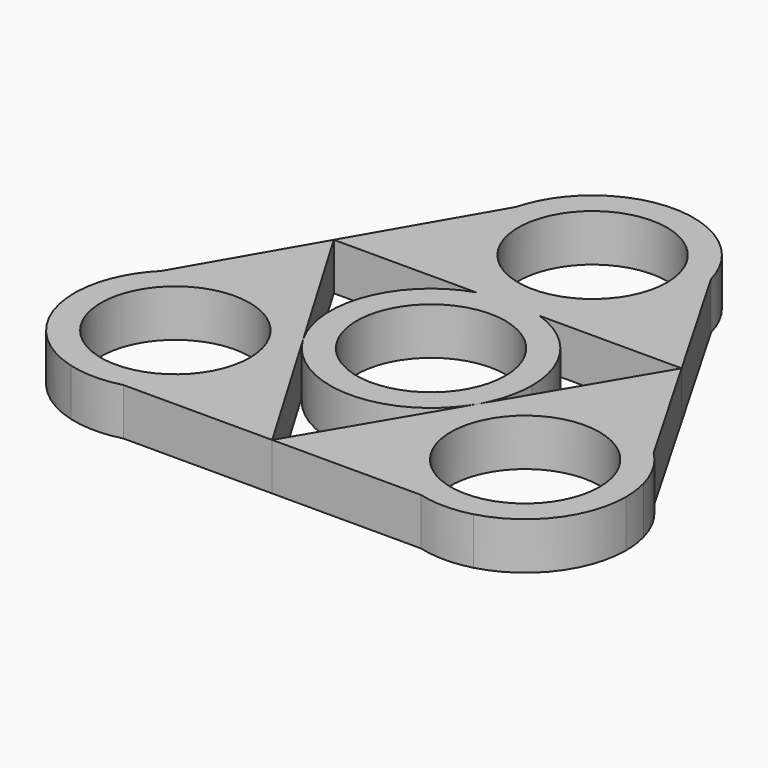
from build123d import *

# Parameters (mm, degrees)
F0_R     = 11.05
F1_DEPTH = 7


with BuildPart() as f1:
    # F0 (on Top) → F1 (new body)
    with BuildSketch(Plane.XY):
        with BuildLine():
            Line((10.6066017178, 40.6066017178), (14.4888873943, 33.8822856765))
            ThreePointArc((14.4888873943, 33.8822856765), (12.9903810568, 37.5), (10.6066017178, 40.6066017178))
        make_face()
        with BuildLine():
            ThreePointArc((-10.6066017178, 40.6066017178), (-12.9903810568, 37.5), (-14.4888873943, 33.8822856765))
            Line((-14.4888873943, 33.8822856765), (-10.6066017178, 40.6066017178))
        make_face()
        with BuildLine():
            ThreePointArc((0, 15), (2.3933095573, 14.8078381057), (4.7252987281, 14.2362759151))
            Line((4.7252987281, 14.2362759151), (25.8315164186, 14.2362759151))
            Line((25.8315164186, 14.2362759151), (14.4888873943, 33.8822856765))
            ThreePointArc((14.4888873943, 33.8822856765), (14.8716729206, 31.9578928833), (15, 30))
            ThreePointArc((15, 30), (10.6066017178, 19.3933982822), (0, 15))
        make_face()
        with BuildLine():
            ThreePointArc((-4.7252987281, 14.2362759151), (-2.3933095573, 14.8078381057), (0, 15))
            ThreePointArc((0, 15), (-11.9003001044, 20.8685785649), (-14.4888873943, 33.8822856765))
            Line((-14.4888873943, 33.8822856765), (-25.8315164186, 14.2362759151))
            Line((-25.8315164186, 14.2362759151), (-4.7252987281, 14.2362759151))
        make_face()
        with BuildLine():
            ThreePointArc((-14.4888873943, 33.8822856765), (-11.9003001044, 20.8685785649), (0, 15))
            ThreePointArc((0, 15), (10.6066017178, 19.3933982822), (15, 30))
            ThreePointArc((15, 30), (14.8716729206, 31.9578928833), (14.4888873943, 33.8822856765))
            Line((14.4888873943, 33.8822856765), (10.6066017178, 40.6066017178))
            ThreePointArc((10.6066017178, 40.6066017178), (0, 45), (-10.6066017178, 40.6066017178))
            Line((-10.6066017178, 40.6066017178), (-14.4888873943, 33.8822856765))
        make_face()
        with Locations((0, 30)):
            Circle(F0_R, mode=Mode.SUBTRACT)
        with BuildLine():
            ThreePointArc((13.021447299, -7.4459324626), (14.4969256997, -3.8521611152), (15, 0))
            ThreePointArc((15, 0), (12.1630481566, 8.7783973218), (4.7252987281, 14.2362759151))
            Line((4.7252987281, 14.2362759151), (-4.7252987281, 14.2362759151))
            ThreePointArc((-4.7252987281, 14.2362759151), (-14.0206187409, 5.3312522095), (-12.9903810914, -7.49999994))
            ThreePointArc((-12.9903810914, -7.49999994), (-12.9528074644, -7.5647061272), (-12.914911533, -7.6292240821))
            ThreePointArc((-12.914911533, -7.6292240821), (-0.1068947331, -14.9996191124), (12.8048660264, -7.8125159869))
            Line((12.8048660264, -7.8125159869), (13.021447299, -7.4459324626))
        make_face()
        Circle(F0_R, mode=Mode.SUBTRACT)
        with BuildLine():
            Line((-4.7252987281, 14.2362759151), (4.7252987281, 14.2362759151))
            ThreePointArc((4.7252987281, 14.2362759151), (2.3933095573, 14.8078381057), (0, 15))
            ThreePointArc((0, 15), (-2.3933095573, 14.8078381057), (-4.7252987281, 14.2362759151))
        make_face()
    extrude(amount=F1_DEPTH)


with BuildPart() as f1b:
    # F0 (on Top) → F1, piece 2 (new body)
    with BuildSketch(Plane.XY):
        with BuildLine():
            Line((-40.4696495079, -11.1177143235), (-36.5873638313, -4.3933982822))
            ThreePointArc((-36.5873638313, -4.3933982822), (-38.9711431703, -7.5), (-40.4696495079, -11.1177143235))
        make_face()
        with BuildLine():
            ThreePointArc((-29.8630477901, -29.4888873943), (-25.9807621135, -30), (-22.098476437, -29.4888873943))
            Line((-22.098476437, -29.4888873943), (-29.8630477901, -29.4888873943))
        make_face()
        with BuildLine():
            Line((-13.1747741501, -7.1893231869), (-25.8315164186, 14.2362759151))
            Line((-25.8315164186, 14.2362759151), (-36.5873638313, -4.3933982822))
            ThreePointArc((-36.5873638313, -4.3933982822), (-24.2021041974, -0.1058274477), (-13.1747741501, -7.1893231869))
        make_face()
        with BuildLine():
            Line((-0.0017545518, -29.4888873943), (-12.914911533, -7.6292240821))
            Line((-12.914911533, -7.6292240821), (-12.9594983082, -7.5537466528))
            ThreePointArc((-12.9594983082, -7.5537466528), (-11.4838838792, -11.1476602616), (-10.9807621135, -15))
            ThreePointArc((-10.9807621135, -15), (-14.0804620092, -24.1314214351), (-22.098476437, -29.4888873943))
            Line((-22.098476437, -29.4888873943), (-0.0017545518, -29.4888873943))
        make_face()
        with BuildLine():
            ThreePointArc((-10.9807621135, -15), (-11.4838838792, -11.1476602616), (-12.9594983082, -7.5537466528))
            Line((-12.9594983082, -7.5537466528), (-13.1747741501, -7.1893231869))
            ThreePointArc((-13.1747741501, -7.1893231869), (-24.2021041974, -0.1058274477), (-36.5873638313, -4.3933982822))
            Line((-36.5873638313, -4.3933982822), (-40.4696495079, -11.1177143235))
            ThreePointArc((-40.4696495079, -11.1177143235), (-38.9711431703, -22.5), (-29.8630477901, -29.4888873943))
            Line((-29.8630477901, -29.4888873943), (-22.098476437, -29.4888873943))
            ThreePointArc((-22.098476437, -29.4888873943), (-14.0804620092, -24.1314214351), (-10.9807621135, -15))
        make_face()
        with Locations((-25.9807621135, -15)):
            Circle(F0_R, mode=Mode.SUBTRACT)
    extrude(amount=F1_DEPTH)


with BuildPart() as f1c:
    # F0 (on Top) → F1, piece 3 (new body)
    with BuildSketch(Plane.XY):
        with BuildLine():
            ThreePointArc((40.4696495079, -11.1177143235), (38.9711431703, -7.5), (36.5873638313, -4.3933982822))
            Line((36.5873638313, -4.3933982822), (40.4696495079, -11.1177143235))
        make_face()
        with BuildLine():
            Line((29.8630477901, -29.4888873943), (22.098476437, -29.4888873943))
            ThreePointArc((22.098476437, -29.4888873943), (25.9807621135, -30), (29.8630477901, -29.4888873943))
        make_face()
        with BuildLine():
            Line((36.5873638313, -4.3933982822), (25.8315164186, 14.2362759151))
            Line((25.8315164186, 14.2362759151), (13.0663046971, -7.370007232))
            ThreePointArc((13.0663046971, -7.370007232), (24.0975203098, -0.1186895635), (36.5873638313, -4.3933982822))
        make_face()
        with BuildLine():
            ThreePointArc((22.098476437, -29.4888873943), (12.1225691126, -20.7402514535), (12.9903810914, -7.49999994))
            ThreePointArc((12.9903810914, -7.49999994), (12.8985700772, -7.6568198335), (12.8048660264, -7.8125159869))
            Line((12.8048660264, -7.8125159869), (-0.0017545518, -29.4888873943))
            Line((-0.0017545518, -29.4888873943), (22.098476437, -29.4888873943))
        make_face()
        with BuildLine():
            ThreePointArc((13.0663046971, -7.370007232), (13.0281798167, -7.4349083388), (12.9903810914, -7.49999994))
            ThreePointArc((12.9903810914, -7.49999994), (12.1225691126, -20.7402514535), (22.098476437, -29.4888873943))
            Line((22.098476437, -29.4888873943), (29.8630477901, -29.4888873943))
            ThreePointArc((29.8630477901, -29.4888873943), (37.8810622179, -24.1314214351), (40.9807621135, -15))
            ThreePointArc((40.9807621135, -15), (40.8524350341, -13.0421071167), (40.4696495079, -11.1177143235))
            Line((40.4696495079, -11.1177143235), (36.5873638313, -4.3933982822))
            ThreePointArc((36.5873638313, -4.3933982822), (24.0975203098, -0.1186895635), (13.0663046971, -7.370007232))
        make_face()
        with Locations((25.9807621135, -15)):
            Circle(F0_R, mode=Mode.SUBTRACT)
    extrude(amount=F1_DEPTH)


solid = Compound([f1.part, f1b.part, f1c.part])
